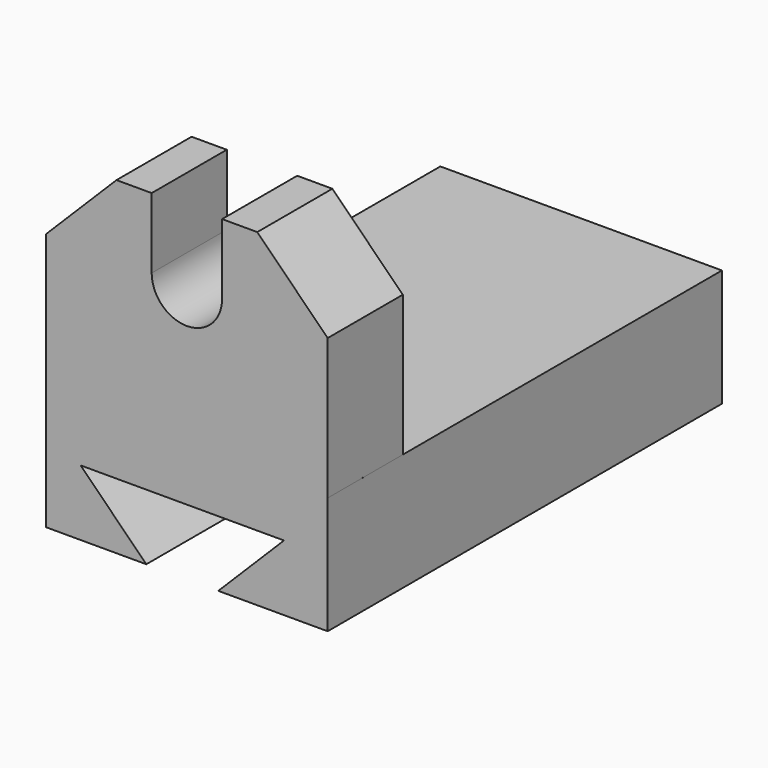
from build123d import *

# Parameters (mm, degrees)
F0_W     = 1524
F0_H     = 2667
F1_DEPTH = 635
F4_DEPTH = 508
F6_DEPTH = 2667


with BuildPart() as f1:
    # F0 (on Top) → F1 (new body)
    with BuildSketch(Plane.XY):
        with Locations((-77.602857, -3.223371)):
            Rectangle(F0_W, F0_H)
    extrude(amount=-F1_DEPTH)

    # F3 (on face) → F4 (join)
    with BuildSketch(Plane.XZ.offset(1336.723371)):
        with BuildLine():
            Line((-839.602857, 762), (-839.602857, 0))
            Line((-839.602857, 0), (684.370935, 0))
            Line((684.370935, 0), (684.370935, 762))
            Line((684.370935, 762), (303.370935, 1143))
            Line((303.370935, 1143), (112.897143, 1143))
            Line((112.897143, 1143), (112.897143, 762))
            ThreePointArc((112.897143, 762), (-77.602857, 571.5), (-268.102857, 762))
            Line((-268.102857, 762), (-268.102857, 1143))
            Line((-268.102857, 1143), (-458.602857, 1143))
            Line((-458.602857, 1143), (-839.602857, 762))
        make_face()
    extrude(amount=-F4_DEPTH)

    # F5 (on face) → F6 (cut)
    with BuildSketch(Plane(origin=(0, 1330.276629, 0), x_dir=(-1, 0, 0), z_dir=(0, 1, 0))):
        Polygon((-447.921321, -279.4), (-92.321321, -635), (-92.321321, -854.684353), (309.403628, -854.684353), (297.137231, -635), (652.737231, -279.4), align=None)
    extrude(amount=-F6_DEPTH, mode=Mode.SUBTRACT)


solid = f1.part
